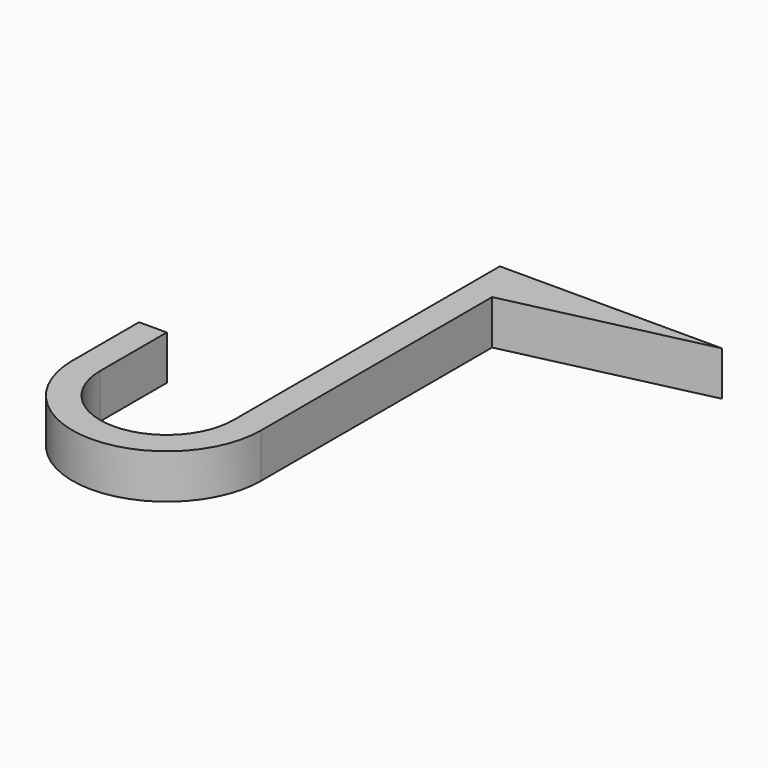
from build123d import *

# Parameters (mm, degrees)
PAD_DEPTH = 8


with BuildPart() as part:
    # Sketch → Pad (new body)
    with BuildSketch(Plane.XY):
        with BuildLine():
            Line((-2.5, 30), (37.5, 30))
            Line((37.5, 30), (2.5, 22))
            Line((2.5, 22), (2.5, -30))
            ThreePointArc((-31.5, -29.999997), (-14.500001, -46.999997), (2.5, -30))
            Line((-31.5, -29.999997), (-31.5, -14.999997))
            Line((-31.5, -14.999997), (-26.5, -14.999997))
            Line((-26.5, -14.999997), (-26.5, -29.999997))
            ThreePointArc((-26.5, -29.999997), (-14.500001, -41.999997), (-2.5, -30))
            Line((-2.5, -30), (-2.5, 30))
        make_face()
    extrude(amount=PAD_DEPTH)


solid = part.part
